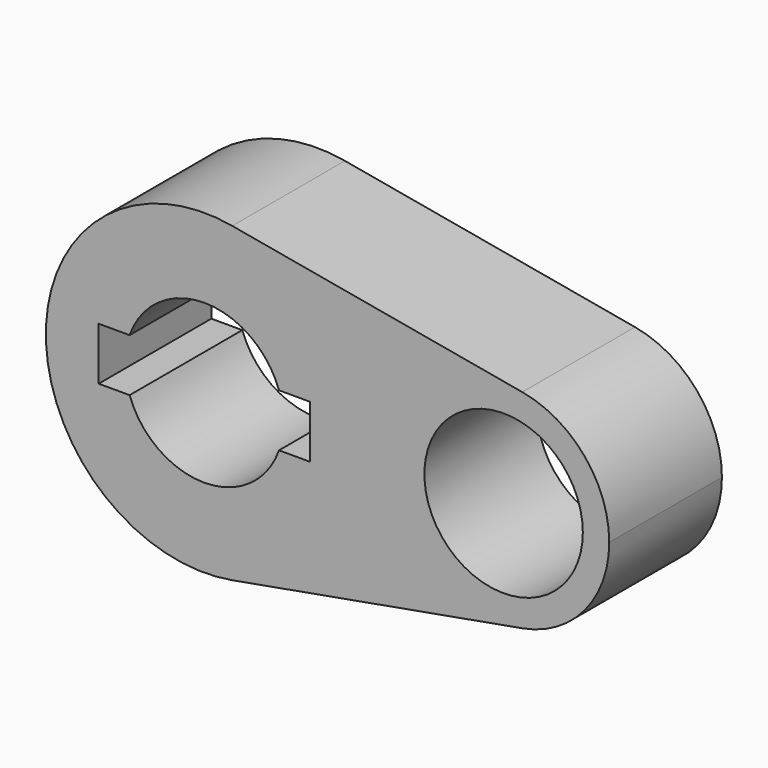
from build123d import *

# Parameters (mm, degrees)
F0_R     = 14.2875
F1_DEPTH = 25.4


with BuildPart() as f1:
    # F0 (on Front) → F1 (new body)
    with BuildSketch(Plane.XZ):
        with BuildLine():
            ThreePointArc((5.042647, -28.126541), (21.916025, -18.336262), (28.575, 0))
            ThreePointArc((28.575, 0), (21.916025, 18.336262), (5.042647, 28.126541))
            ThreePointArc((5.042647, 28.126541), (-28.575, 0), (5.042647, -28.126541))
        make_face()
        with BuildLine():
            ThreePointArc((-13.470384, 4.7625), (0, 14.2875), (13.470384, 4.7625))
            Line((13.470384, 4.7625), (19.05, 4.7625))
            Line((19.05, 4.7625), (19.05, -4.7625))
            Line((19.05, -4.7625), (13.470384, -4.7625))
            ThreePointArc((13.470384, -4.7625), (0, -14.2875), (-13.470384, -4.7625))
            Line((-13.470384, -4.7625), (-19.05, -4.7625))
            Line((-19.05, -4.7625), (-19.05, 4.7625))
            Line((-19.05, 4.7625), (-13.470384, 4.7625))
        make_face(mode=Mode.SUBTRACT)
        with BuildLine():
            ThreePointArc((5.042647, 28.126541), (21.916025, 18.336262), (28.575, 0))
            ThreePointArc((28.575, 0), (21.916025, -18.336262), (5.042647, -28.126541))
            Line((5.042647, -28.126541), (57.336765, -18.751028))
            ThreePointArc((57.336765, -18.751028), (34.925, 0), (57.336765, 18.751028))
            Line((57.336765, 18.751028), (5.042647, 28.126541))
        make_face()
        with BuildLine():
            ThreePointArc((73.025, 0), (68.585683, 12.224174), (57.336765, 18.751028))
            ThreePointArc((57.336765, 18.751028), (34.925, 0), (57.336765, -18.751028))
            ThreePointArc((57.336765, -18.751028), (68.585683, -12.224174), (73.025, 0))
        make_face()
        with Locations((53.975, 0)):
            Circle(F0_R, mode=Mode.SUBTRACT)
    extrude(amount=F1_DEPTH)


solid = f1.part
